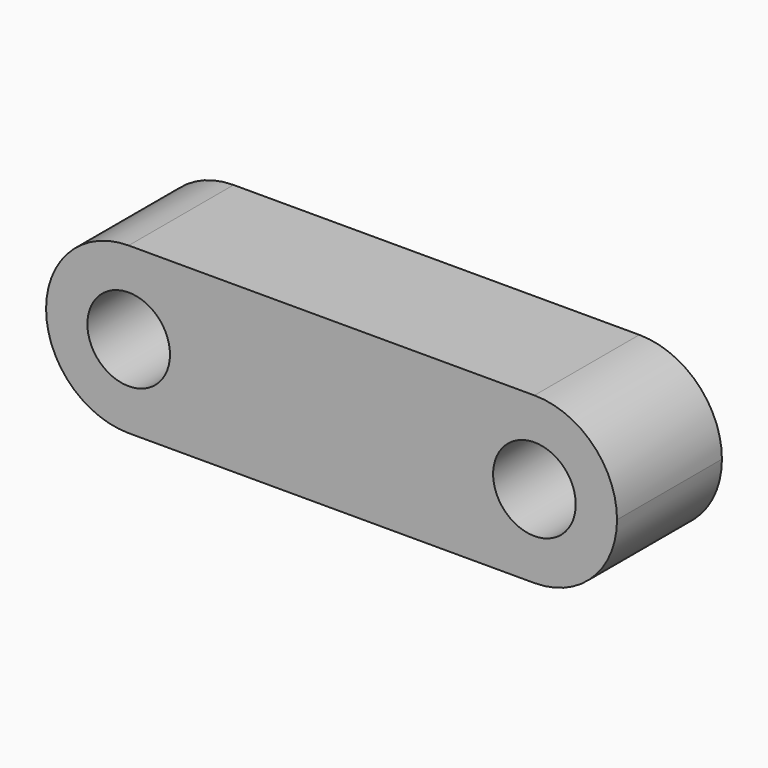
from build123d import *

# Parameters (mm, degrees)
F1_DEPTH = 12.7
F2_R     = 4.0005
F3_DEPTH = 12.7


with BuildPart() as f1:
    # F0 (on Front) → F1 (new body)
    with BuildSketch(Plane.XZ):
        with BuildLine():
            ThreePointArc((-39.3, 8.001), (-33.642439, 5.657561), (-31.299, 0))
            ThreePointArc((-31.299, 0), (-33.642439, -5.657561), (-39.3, -8.001))
            Line((-39.3, -8.001), (0, -8.001))
            ThreePointArc((0, -8.001), (-8.001, 0), (0, 8.001))
            Line((0, 8.001), (-39.3, 8.001))
        make_face()
        with BuildLine():
            ThreePointArc((-39.3, -8.001), (-33.642439, -5.657561), (-31.299, 0))
            ThreePointArc((-31.299, 0), (-33.642439, 5.657561), (-39.3, 8.001))
            ThreePointArc((-39.3, 8.001), (-47.301, 0), (-39.3, -8.001))
        make_face()
        with BuildLine():
            ThreePointArc((8.001, 0), (5.657561, 5.657561), (0, 8.001))
            ThreePointArc((0, 8.001), (-8.001, 0), (0, -8.001))
            ThreePointArc((0, -8.001), (5.657561, -5.657561), (8.001, 0))
        make_face()
    extrude(amount=F1_DEPTH)

    # F2 (on face) → F3 (cut)
    with BuildSketch(Plane.XZ.offset(12.7)):
        with Locations((-39.3, 0)):
            Circle(F2_R)
        Circle(F2_R)
    extrude(amount=-F3_DEPTH, mode=Mode.SUBTRACT)


solid = f1.part
